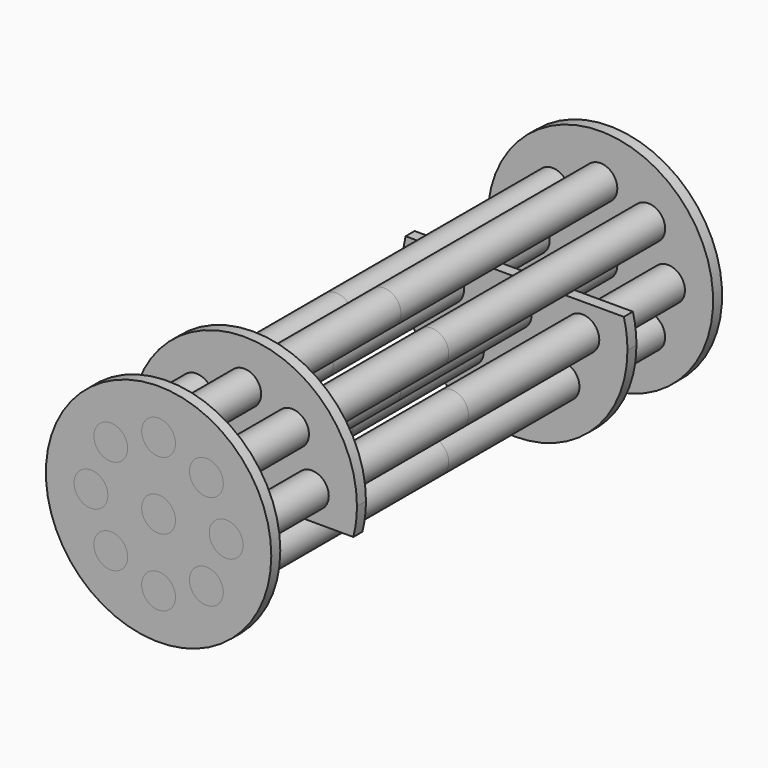
from build123d import *

# Parameters (mm, degrees)
F1_R      = 15
F2_DEPTH  = 250
F3_R      = 100
F3_R_2    = 15
F4_DEPTH  = 10
F6_R      = 100
F7_DEPTH  = 10
F12_DEPTH = 5
F15_DEPTH = 5


with BuildPart() as f2:
    # F1 (on Front) → F2 (new body, symmetric)
    with BuildSketch(Plane.XZ):
        with Locations((42.426407, 42.426407)):
            Circle(F1_R)
        with Locations((-42.426407, 42.426407)):
            Circle(F1_R)
        Circle(F1_R)
        with Locations((-60, 0)):
            Circle(F1_R)
        with Locations((-42.426407, -42.426407)):
            Circle(F1_R)
        with Locations((42.426407, -42.426407)):
            Circle(F1_R)
        with Locations((60, 0)):
            Circle(F1_R)
        with Locations((0, 60)):
            Circle(F1_R)
        with Locations((0, -60)):
            Circle(F1_R)
    extrude(amount=F2_DEPTH, both=True)


with BuildPart() as f4:
    # F3 (on face) → F4 (new body)
    with BuildSketch(Plane.XZ.offset(250)):
        Circle(F3_R)
        with Locations((-42.426407, 42.426407)):
            Circle(F3_R_2, mode=Mode.SUBTRACT)
    extrude(amount=-F4_DEPTH)

    # F5: cut F2
    add(f2.part, mode=Mode.SUBTRACT)


with BuildPart() as f7:
    # F6 (on face) → F7 (new body)
    with BuildSketch(Plane(origin=(0, 250, 0), x_dir=(-1, 0, 0), z_dir=(0, 1, 0))):
        Circle(F6_R)
    extrude(amount=-F7_DEPTH)

    # F8: cut F2
    add(f2.part, mode=Mode.SUBTRACT)


with BuildPart() as f12:
    # F11 (on offset) → F12 (new body, symmetric)
    with BuildSketch(Plane.XZ.offset(150)):
        with BuildLine():
            ThreePointArc((96.824584, -25), (99.20297, -12.600429), (100, 0))
            ThreePointArc((100, 0), (-12.600429, 99.20297), (-96.824584, -25))
            Line((-96.824584, -25), (96.824584, -25))
        make_face()
    extrude(amount=F12_DEPTH, both=True)

    # F13: cut F2
    add(f2.part, mode=Mode.SUBTRACT)


with BuildPart() as f15:
    # F14 (on offset) → F15 (new body, symmetric)
    with BuildSketch(Plane.XZ.offset(-150)):
        with BuildLine():
            ThreePointArc((-96.824584, 25), (-12.600429, -99.20297), (100, 0))
            ThreePointArc((100, 0), (99.20297, 12.600429), (96.824584, 25))
            Line((96.824584, 25), (-96.824584, 25))
        make_face()
    extrude(amount=F15_DEPTH, both=True)

    # F16: cut F2
    add(f2.part, mode=Mode.SUBTRACT)


solid = Compound([f2.part, f4.part, f7.part, f12.part, f15.part])
